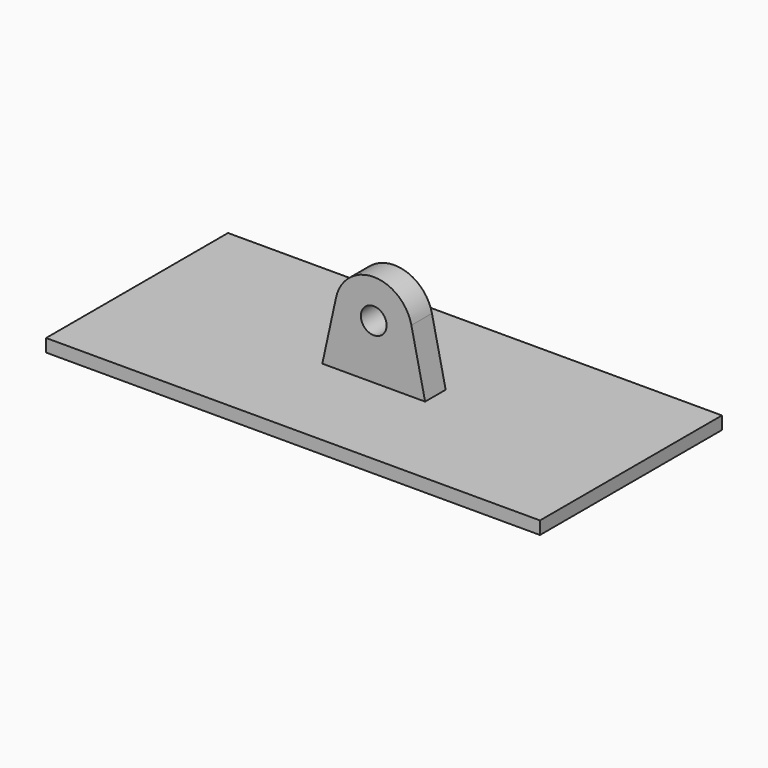
from build123d import *

# Parameters (mm, degrees)
F0_R     = 6.35
F1_DEPTH = 6.35
F2_W     = 244.07649
F2_H     = 112.381868
F3_DEPTH = 6.35


with BuildPart() as f1:
    # F0 (on Front) → F1 (new body, symmetric)
    with BuildSketch(Plane.XZ):
        with BuildLine():
            Line((25.4, -26.940768), (18.609163, 4.074502))
            ThreePointArc((18.609163, 4.074502), (0, 19.05), (-18.609163, 4.074502))
            Line((-18.609163, 4.074502), (-25.4, -26.940768))
            Line((-25.4, -26.940768), (25.4, -26.940768))
        make_face()
        Circle(F0_R, mode=Mode.SUBTRACT)
    extrude(amount=F1_DEPTH, both=True)

    # F2 (on face) → F3 (join)
    with BuildSketch(Plane(origin=(0, 0, -26.940768), x_dir=(1, 0, 0), z_dir=(0, 0, -1))):
        Rectangle(F2_W, F2_H)
    extrude(amount=F3_DEPTH)


solid = f1.part
